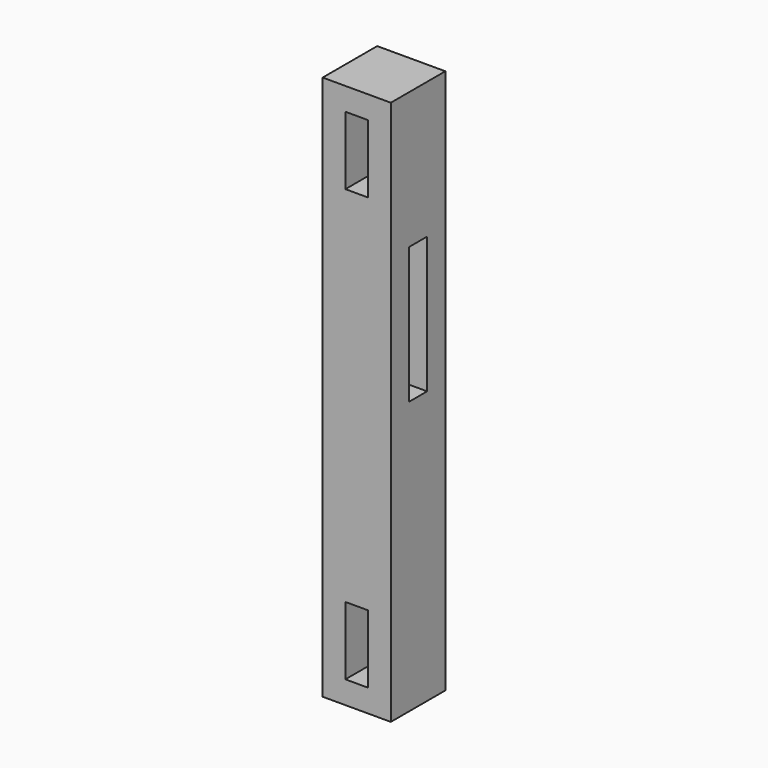
from build123d import *

# Parameters (mm, degrees)
F0_W          = 76.2
F0_H          = 609.6
F0_W_2        = 25.4
F0_H_2        = 152.4
F1_DEPTH      = 38.1
F1_DEPTH_BACK = 38.1
F2_W          = 25.4
F2_H          = 76.2
F3_DEPTH      = 101.6


with BuildPart() as f1:
    # F0 (on Right) → F1 (new body, two sides)
    with BuildSketch(Plane.YZ) as f1_sk:
        with Locations((0, -241.3)):
            Rectangle(F0_W, F0_H)
        with Locations((0, -165.1)):
            Rectangle(F0_W_2, F0_H_2, mode=Mode.SUBTRACT)
    extrude(amount=F1_DEPTH)
    extrude(f1_sk.sketch, amount=-F1_DEPTH_BACK)

    # F2 (on face) → F3 (cut)
    with BuildSketch(Plane.XZ.offset(38.1)):
        Rectangle(F2_W, F2_H)
        with Locations((0, -482.6)):
            Rectangle(F2_W, F2_H)
    extrude(amount=-F3_DEPTH, mode=Mode.SUBTRACT)


solid = f1.part
